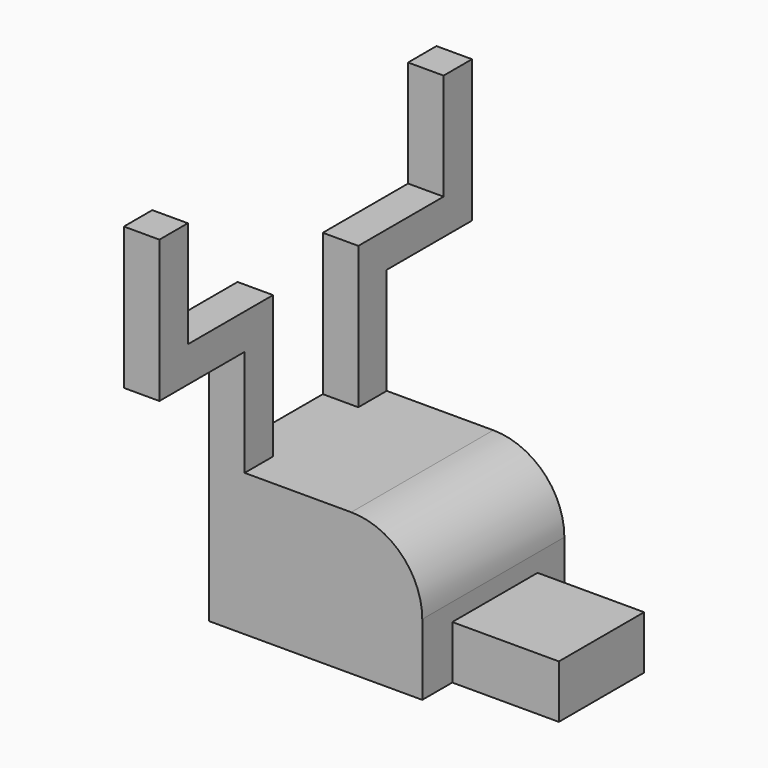
from build123d import *

# Parameters (mm, degrees)
F0_W      = 30
F0_H      = 25
F1_DEPTH  = 20
F2_W      = 15
F2_H      = 7.5
F3_DEPTH  = 15
F4_W      = 5
F4_H      = 5
F5_DEPTH  = 20
F6_W      = 5
F6_H      = 5
F7_DEPTH  = 15
F8_W      = 5
F8_H      = 5
F9_DEPTH  = 15
F10_W     = 5
F10_H     = 5
F11_W     = 5
F11_H     = 5
F12_DEPTH = 15
F13_R     = 10


with BuildPart() as f1:
    # F0 (on Top) → F1 (new body)
    with BuildSketch(Plane.XY):
        with Locations((-42.374329, -29.235112)):
            Rectangle(F0_W, F0_H)
    extrude(amount=F1_DEPTH)

    # F2 (on face) → F3 (join)
    with BuildSketch(Plane.YZ.offset(-27.374329)):
        with Locations((-28.950002, 3.75)):
            Rectangle(F2_W, F2_H)
    extrude(amount=F3_DEPTH)

    # F4 (on face) → F5 (join)
    with BuildSketch(Plane.XY.offset(20)):
        with Locations((-54.874329, -19.235112)):
            Rectangle(F4_W, F4_H)
        with Locations((-54.874329, -39.235112)):
            Rectangle(F4_W, F4_H)
    extrude(amount=F5_DEPTH)

    # F6 (on face) → F7 (join)
    with BuildSketch(Plane(origin=(0, -16.735112, 0), x_dir=(-1, 0, 0), z_dir=(0, 1, 0))):
        with Locations((54.874329, 37.5)):
            Rectangle(F6_W, F6_H)
    extrude(amount=F7_DEPTH)

    # F8 (on face) → F9 (join)
    with BuildSketch(Plane.XZ.offset(41.735112)):
        with Locations((-54.874329, 37.5)):
            Rectangle(F8_W, F8_H)
    extrude(amount=F9_DEPTH)

    # F10 (on face) + F11 (on face) → F12 (join)
    with BuildSketch(Plane.XY.offset(40)):
        with Locations((-54.874329, -4.235112)):
            Rectangle(F10_W, F10_H)
    with BuildSketch(Plane.XY.offset(40)):
        with Locations((-54.874329, -54.235112)):
            Rectangle(F11_W, F11_H)
    extrude(amount=F12_DEPTH)

    # F13
    f13_edges = [f1.edges().sort_by_distance(p)[0] for p in [
        (-27.374329, -29.235112, 20),
    ]]
    fillet(f13_edges, radius=F13_R)


solid = f1.part
